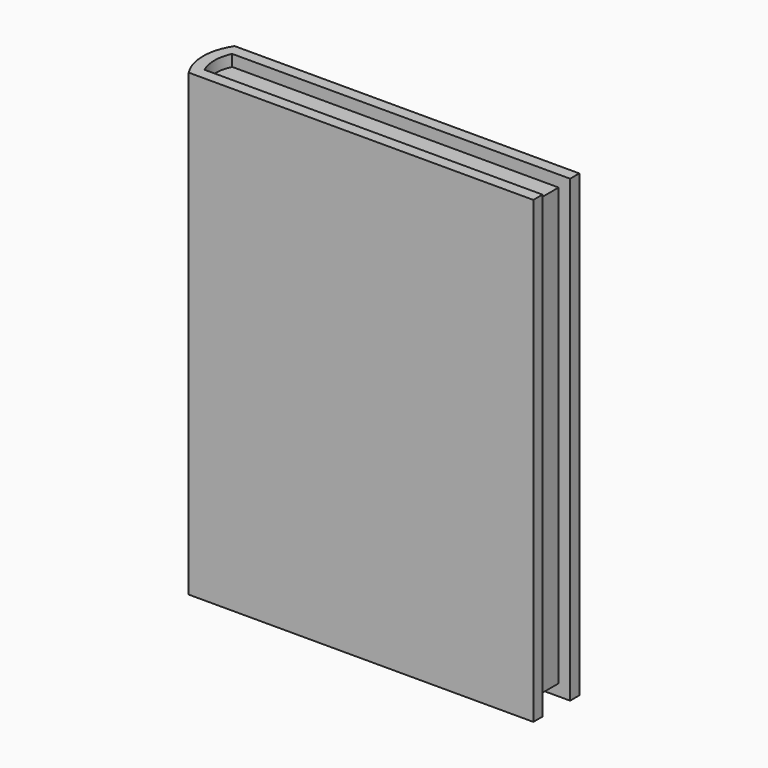
from build123d import *

# Parameters (mm, degrees)
F0_W     = 152.4
F0_H     = 203.2
F1_DEPTH = 12.7
F2_W     = 15.24
F2_H     = 203.2
F3_DEPTH = 5.08
F5_DEPTH = 203.2
F7_DEPTH = 5.08
F9_DEPTH = 5.08


with BuildPart() as f1:
    # F0 (on Front) → F1 (new body, symmetric)
    with BuildSketch(Plane.XZ):
        with Locations((-30.4995095253, 70.9851061165)):
            Rectangle(F0_W, F0_H)
    extrude(amount=F1_DEPTH, both=True)

    # F2 (on face) → F3 (cut)
    with BuildSketch(Plane.YZ.offset(45.7004904747)):
        with Locations((0, 70.9851061165)):
            Rectangle(F2_W, F2_H)
    extrude(amount=-F3_DEPTH, mode=Mode.SUBTRACT)

    # F4 (on face) → F5 (join)
    with BuildSketch(Plane.XY.offset(172.5851061165)):
        with BuildLine():
            Line((-106.6995095253, -12.7), (-106.6995095253, 12.7))
            ThreePointArc((-106.6995095253, 12.7), (-110.5322322417, 0), (-106.6995095253, -12.7))
        make_face()
    extrude(amount=-F5_DEPTH)

    # F6 (on face) → F7 (cut)
    with BuildSketch(Plane.XY.offset(172.5851061165)):
        with BuildLine():
            Line((40.6204904747, 7.62), (-103.746953477, 7.62))
            ThreePointArc((-103.746953477, 7.62), (-105.4522322417, 0), (-103.746953477, -7.62))
            Line((-103.746953477, -7.62), (40.6204904747, -7.62))
            Line((40.6204904747, -7.62), (40.6204904747, 7.62))
        make_face()
    extrude(amount=-F7_DEPTH, mode=Mode.SUBTRACT)

    # F8 (on face) → F9 (cut)
    with BuildSketch(Plane(origin=(0, 0, -30.6148938835), x_dir=(1, 0, 0), z_dir=(0, 0, -1))):
        with BuildLine():
            ThreePointArc((-103.746953477, 7.62), (-105.4522322417, 0), (-103.746953477, -7.62))
            Line((-103.746953477, -7.62), (40.6204904747, -7.62))
            Line((40.6204904747, -7.62), (40.6204904747, 7.62))
            Line((40.6204904747, 7.62), (-103.746953477, 7.62))
        make_face()
    extrude(amount=-F9_DEPTH, mode=Mode.SUBTRACT)


solid = f1.part
